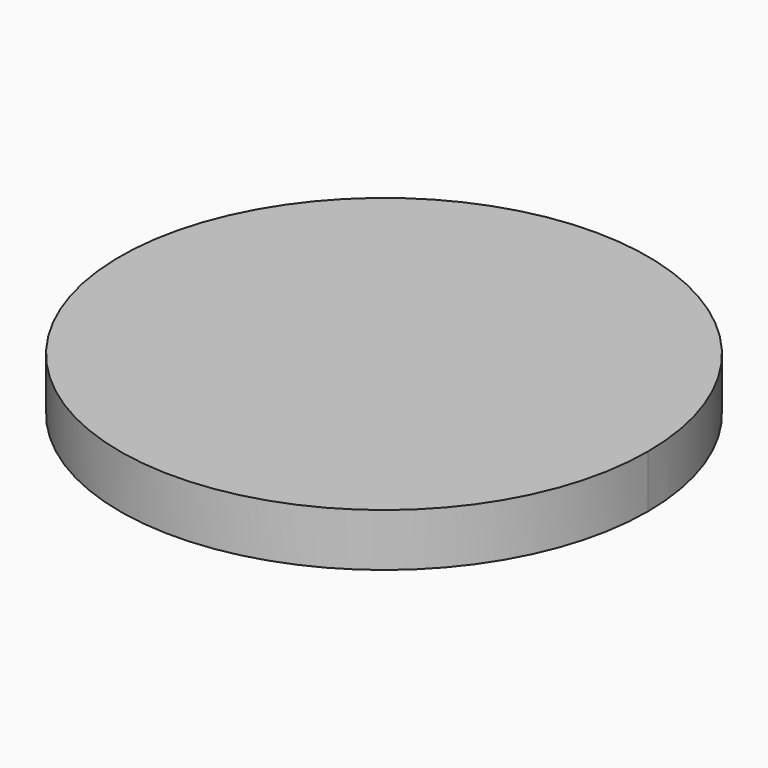
from build123d import *

# Parameters (mm, degrees)
F1_DEPTH = 4.5


with BuildPart() as f1:
    # F0 (on Top) → F1 (new body)
    with BuildSketch(Plane.XY):
        with BuildLine():
            ThreePointArc((-3.870333, 22.164623), (-14.477008, -17.224002), (22.5, 0))
            ThreePointArc((22.5, 0), (17.224002, 14.477008), (3.870333, 22.164623))
            add(Edge.make_bspline(
                [(-3.870333, 22.164623), (-23.209626, -20), (0, -20), (23.209626, -20), (3.870333, 22.164623)],
                knots=[0.585846, 0.585846, 0.585846, 3.141593, 3.141593, 5.697339, 5.697339, 5.697339], degree=2, weights=[1, 0.288752, 1, 0.288752, 1]))
        make_face()
        with BuildLine():
            add(Edge.make_bspline(
                [(-3.870333, 22.164623), (-23.209626, -20), (0, -20), (23.209626, -20), (3.870333, 22.164623)],
                knots=[0.585846, 0.585846, 0.585846, 3.141593, 3.141593, 5.697339, 5.697339, 5.697339], degree=2, weights=[1, 0.288752, 1, 0.288752, 1]))
            ThreePointArc((3.870333, 22.164623), (0, 22.5), (-3.870333, 22.164623))
        make_face()
    extrude(amount=F1_DEPTH)


solid = f1.part
